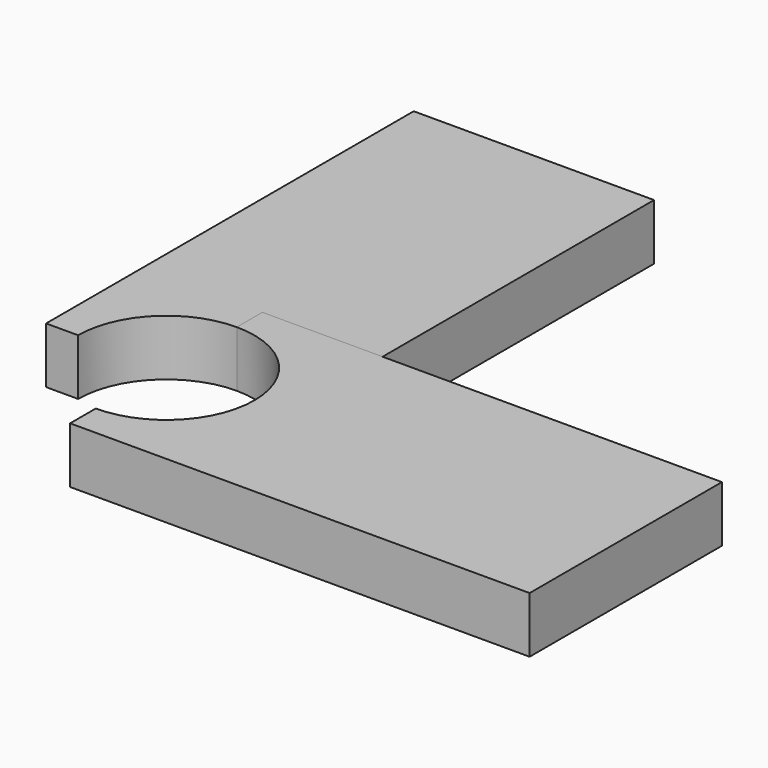
from build123d import *

# Parameters (mm, degrees)
F1_DEPTH = 7
F3_ANGLE = 90


with BuildPart() as f1:
    # F0 (on Top) → F1 (new body)
    with BuildSketch(Plane.XY):
        with BuildLine():
            ThreePointArc((-11, 0), (-7.778175, 7.778175), (0, 11))
            Line((0, 11), (0, 57.353143))
            Line((0, 57.353143), (-15, 57.353143))
            Line((-15, 57.353143), (-15, 0))
            Line((-15, 0), (-11, 0))
        make_face()
        with BuildLine():
            ThreePointArc((0, 11), (7.778175, 7.778175), (11, 0))
            Line((11, 0), (15, 0))
            Line((15, 0), (15, 57.353143))
            Line((15, 57.353143), (0, 57.353143))
            Line((0, 57.353143), (0, 11))
        make_face()
    extrude(amount=F1_DEPTH)


with BuildPart() as f3_1:
    # F3: copy of F1
    add(f1.part.rotate(Axis((0, 0, -39.024439), (0, 0, -1)), F3_ANGLE))


solid = Compound([f1.part, f3_1.part])
